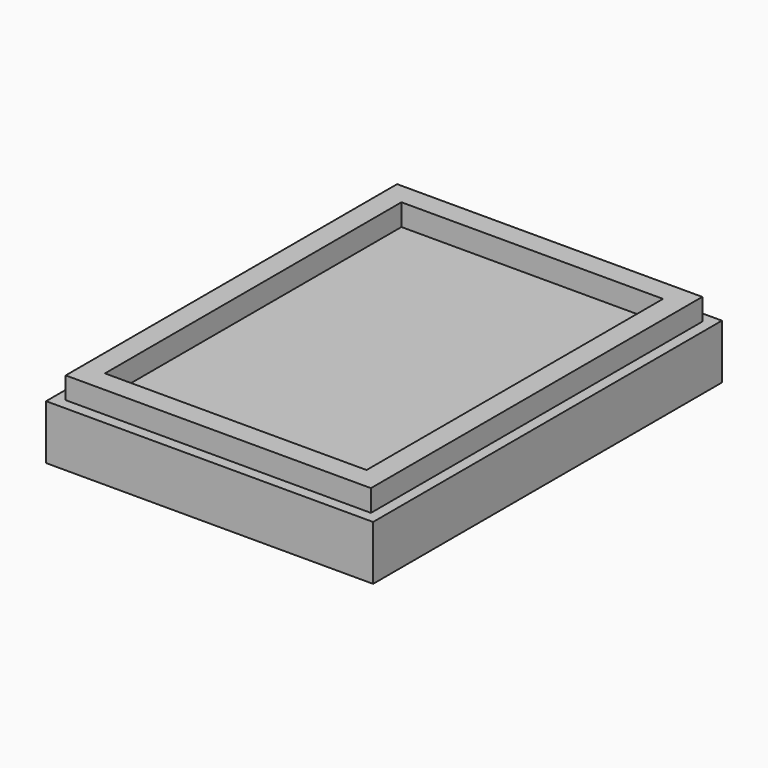
from build123d import *

# Parameters (mm, degrees)
F0_W     = 76.2
F0_H     = 101.6
F1_DEPTH = 12.7
F2_W     = 71.12
F2_H     = 96.52
F2_W_2   = 60.96
F2_H_2   = 86.36
F3_DEPTH = 5.08


with BuildPart() as f1:
    # F0 (on Top) → F1 (new body)
    with BuildSketch(Plane.XY):
        with Locations((-38.1, 50.8)):
            Rectangle(F0_W, F0_H)
    extrude(amount=-F1_DEPTH)

    # F2 (on face) → F3 (join)
    with BuildSketch(Plane.XY):
        with Locations((-38.1, 50.8)):
            Rectangle(F2_W, F2_H)
        with Locations((-38.1, 50.8)):
            Rectangle(F2_W_2, F2_H_2, mode=Mode.SUBTRACT)
    extrude(amount=F3_DEPTH)


solid = f1.part
